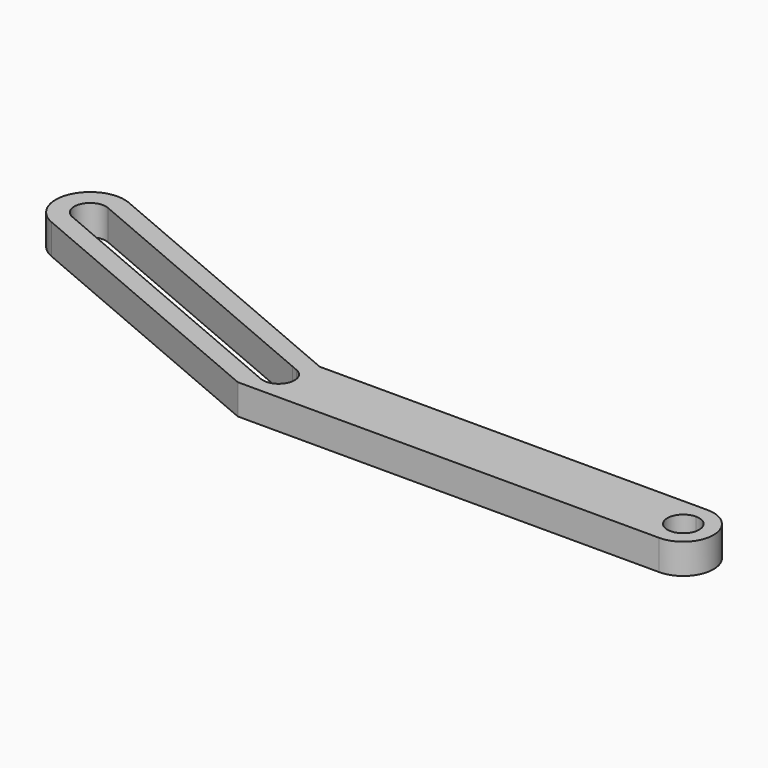
from build123d import *

# Parameters (mm, degrees)
F1_DEPTH = 5


with BuildPart() as f1:
    # F0 (on Top) → F1 (new body)
    with BuildSketch(Plane.XY):
        with BuildLine():
            Line((17.188112, 5.797709), (17.188112, 3.422709))
            ThreePointArc((17.188112, 3.422709), (22.188112, 8.422709), (17.188112, 13.422709))
            Line((17.188112, 13.422709), (17.188112, 11.047709))
            ThreePointArc((17.188112, 11.047709), (19.044267, 10.278865), (19.813112, 8.422709))
            ThreePointArc((19.813112, 8.422709), (19.044267, 6.566554), (17.188112, 5.797709))
        make_face()
        with BuildLine():
            Line((-49.811888, 5.797709), (-49.811888, 3.422709))
            Line((-49.811888, 3.422709), (17.188112, 3.422709))
            Line((17.188112, 3.422709), (17.188112, 5.797709))
            ThreePointArc((17.188112, 5.797709), (14.563112, 8.422709), (17.188112, 11.047709))
            Line((17.188112, 11.047709), (17.188112, 13.422709))
            Line((17.188112, 13.422709), (-47.029572, 13.422709))
            Line((-47.029572, 13.422709), (-49.811888, 13.422709))
            Line((-49.811888, 13.422709), (-49.811888, 11.276207))
            Line((-49.811888, 11.276207), (-48.803626, 10.846349))
            ThreePointArc((-48.803626, 10.846349), (-47.628163, 9.879407), (-47.186888, 8.422709))
            ThreePointArc((-47.186888, 8.422709), (-47.955733, 6.566554), (-49.811888, 5.797709))
        make_face()
        Polygon((-49.811888, 13.422709), (-47.029572, 13.422709), (-94.996532, 33.872711), (-96.198845, 31.052598), (-49.811888, 11.276207), align=None)
        with BuildLine():
            Line((-52.594719, 3.422709), (-49.811888, 3.422709))
            Line((-49.811888, 3.422709), (-49.811888, 5.797709))
            ThreePointArc((-49.811888, 5.797709), (-50.337253, 5.850819), (-50.841358, 6.008001))
            Line((-50.841358, 6.008001), (-98.257794, 26.223185))
            Line((-98.257794, 26.223185), (-99.460107, 23.403073))
            Line((-99.460107, 23.403073), (-52.594719, 3.422709))
        make_face()
        with BuildLine():
            ThreePointArc((-94.996532, 33.872711), (-102.463139, 30.86968), (-99.460107, 23.403073))
            Line((-99.460107, 23.403073), (-98.257794, 26.223185))
            ThreePointArc((-98.257794, 26.223185), (-99.643026, 29.667366), (-96.198845, 31.052598))
            Line((-96.198845, 31.052598), (-94.996532, 33.872711))
        make_face()
    extrude(amount=F1_DEPTH)


solid = f1.part
